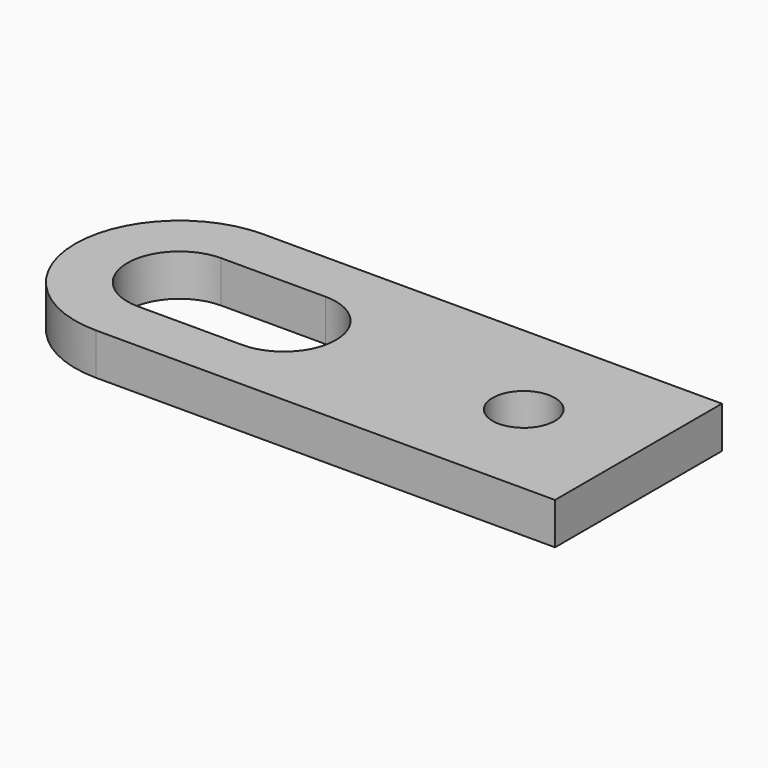
from build123d import *

# Parameters (mm, degrees)
F1_DEPTH = 2.54
F3_DEPTH = 2.541
F5_D     = 3.7973


with BuildPart() as f1:
    # F0 (on Top) → F1 (new body)
    with BuildSketch(Plane.XY):
        with BuildLine():
            ThreePointArc((0, 6.35), (1.8598719395, 1.8598719395), (6.35, 0))
            Line((6.35, 0), (34.29, 0))
            Line((34.29, 0), (34.29, 12.7))
            Line((34.29, 12.7), (6.35, 12.7))
            ThreePointArc((6.35, 12.7), (1.8598719395, 10.8401280605), (0, 6.35))
        make_face()
    extrude(amount=F1_DEPTH)

    # F2 (on face) → F3 (cut, through all)
    with BuildSketch(Plane.XY.offset(2.54)):
        with BuildLine():
            Line((12.7, 9.525), (6.35, 9.525))
            ThreePointArc((6.35, 9.525), (3.175, 6.35), (6.35, 3.175))
            Line((6.35, 3.175), (12.7, 3.175))
            ThreePointArc((12.7, 3.175), (15.875, 6.35), (12.7, 9.525))
        make_face()
    extrude(amount=-F3_DEPTH, mode=Mode.SUBTRACT)

    # F5 (through all)
    with Locations(Plane.XY.offset(2.54)):
        with Locations((27.305, 6.35)):
            Hole(F5_D / 2)


solid = f1.part
